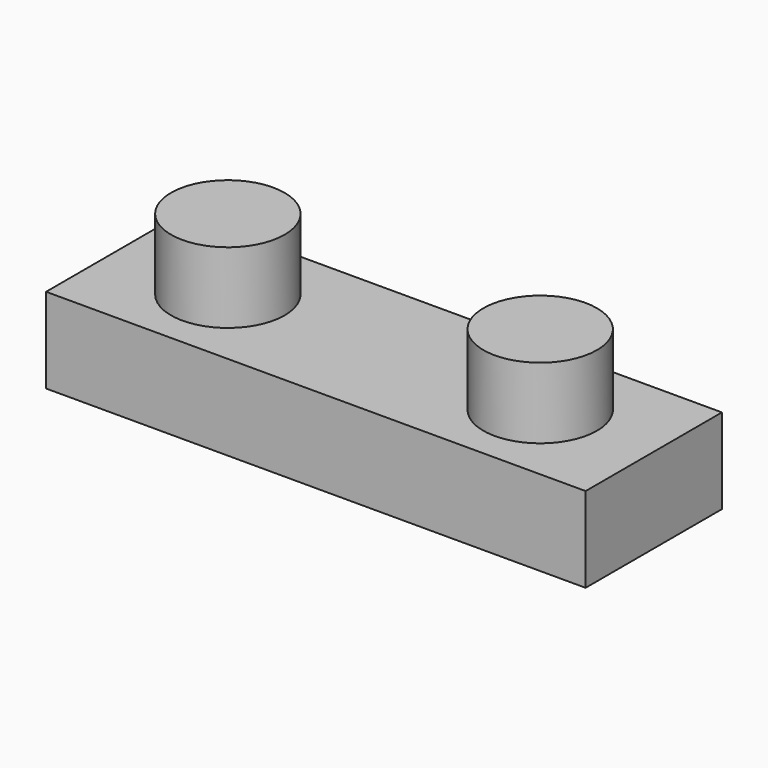
from build123d import *

# Parameters (mm, degrees)
F0_W     = 38
F0_H     = 12
F1_DEPTH = 6
F2_R     = 4
F3_DEPTH = 5
F4_R     = 4
F5_DEPTH = 5
F6_R     = 3
F7_DEPTH = 5
F8_DEPTH = 5.5


with BuildPart() as f1:
    # F0 (on Top) → F1 (new body)
    with BuildSketch(Plane.XY):
        with Locations((19, 6)):
            Rectangle(F0_W, F0_H)
    extrude(amount=F1_DEPTH)

    # F2 (on face) → F3 (join)
    with BuildSketch(Plane.XY.offset(6)):
        with Locations((8, 6)):
            Circle(F2_R)
    extrude(amount=F3_DEPTH)

    # F4 (on face) → F5 (join)
    with BuildSketch(Plane.XY.offset(6)):
        with Locations((30, 6)):
            Circle(F4_R)
    extrude(amount=F5_DEPTH)

    # F6 (on face) → F7 (cut)
    with BuildSketch(Plane.XY):
        with Locations((28, 6)):
            Circle(F6_R)
    extrude(amount=F7_DEPTH, mode=Mode.SUBTRACT)

    # F6 (on face) → F8 (cut)
    with BuildSketch(Plane.XY):
        with Locations((28, 6)):
            Circle(F6_R)
        with Locations((11, 6)):
            Circle(F6_R)
    extrude(amount=F8_DEPTH, mode=Mode.SUBTRACT)


solid = f1.part
